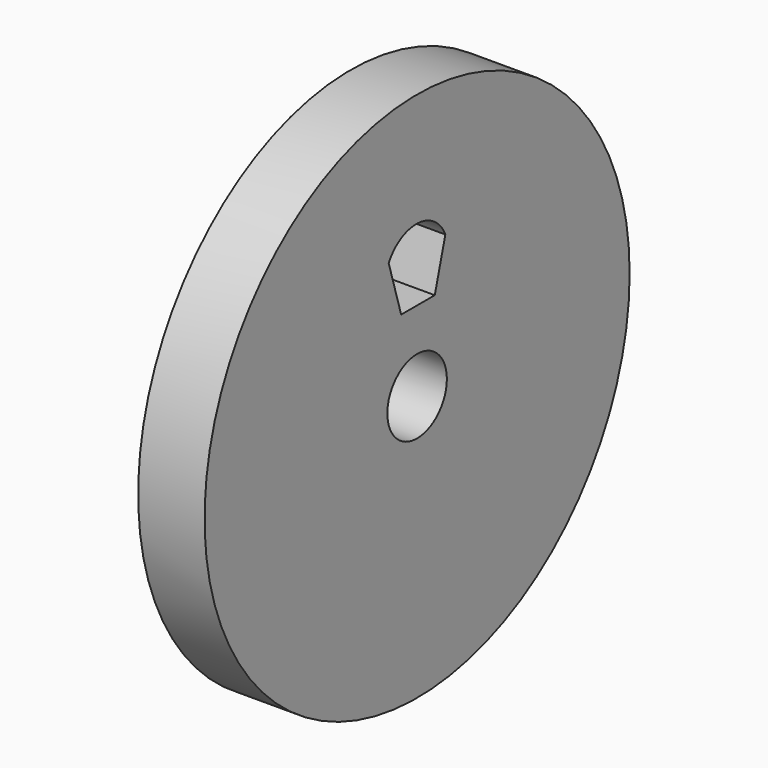
from build123d import *

# Parameters (mm, degrees)
F0_R     = 25.4
F0_R_2   = 3.556
F1_DEPTH = 6.35
F3_DEPTH = 76.2


with BuildPart() as f1:
    # F0 (on Right) → F1 (new body)
    with BuildSketch(Plane.YZ):
        Circle(F0_R)
        Circle(F0_R_2, mode=Mode.SUBTRACT)
    extrude(amount=F1_DEPTH)

    # F2 (on face) → F3 (cut)
    with BuildSketch(Plane(origin=(0, 0, 0), x_dir=(0, -1, 0), z_dir=(-1, 0, 0))):
        with BuildLine():
            Line((-3.376935, 12.234649), (-2.113646, 7.640875))
            Line((-2.113646, 7.640875), (1.905905, 7.640875))
            Line((1.905905, 7.640875), (3.398881, 12.579182))
            ThreePointArc((3.398881, 12.579182), (-0.096865, 14.52771), (-3.376935, 12.234649))
        make_face()
    extrude(amount=-F3_DEPTH, mode=Mode.SUBTRACT)


solid = f1.part
